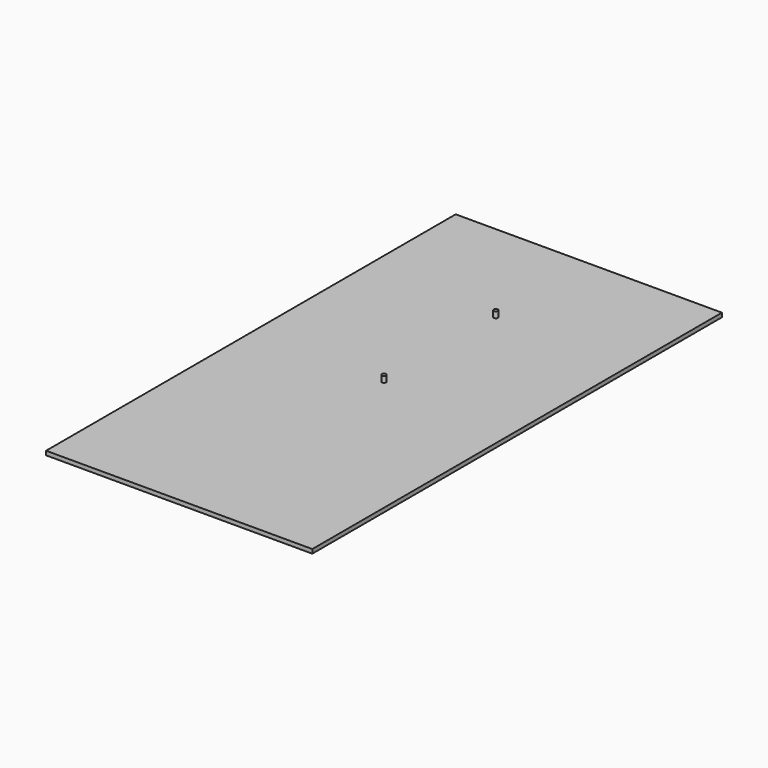
from build123d import *

# Parameters (mm, degrees)
F0_W     = 260
F0_H     = 500
F1_DEPTH = 4
F2_R     = 2
F3_DEPTH = 6


with BuildPart() as f1:
    # F0 (on Top) → F1 (new body)
    with BuildSketch(Plane.XY):
        Rectangle(F0_W, F0_H)
    extrude(amount=-F1_DEPTH)

    # F2 (on face) → F3 (join)
    with BuildSketch(Plane.XY):
        Circle(F2_R)
        with Locations((0, 136.5)):
            Circle(F2_R)
    extrude(amount=F3_DEPTH)


solid = f1.part
